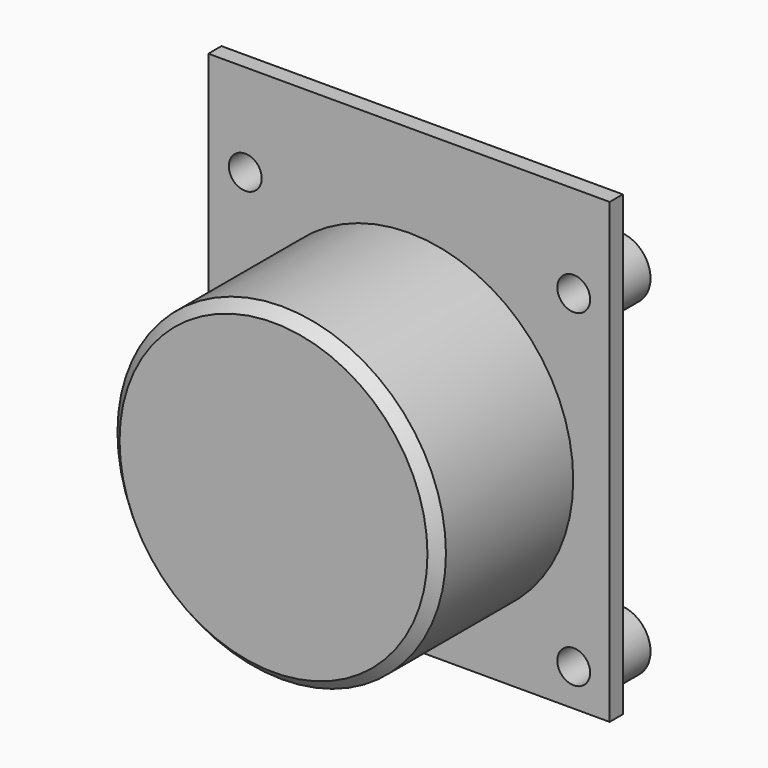
from build123d import *

# Parameters (mm, degrees)
SKETCH011_W     = 39.1
SKETCH011_H     = 44.6
SKETCH011_R     = 1.6
PAD007_DEPTH    = 1.6
SKETCH012_R     = 16
PAD008_DEPTH    = 16.5
SKETCH013_R     = 3
SKETCH013_R_2   = 1.6
PAD009_DEPTH    = 4
CHAMFER001_SIZE = 1


with BuildPart() as part:
    # Sketch011 → Pad007 (new body)
    with BuildSketch(Plane.XZ):
        Rectangle(SKETCH011_W, SKETCH011_H)
        with Locations((-15.95, 13.3)):
            Circle(SKETCH011_R, mode=Mode.SUBTRACT)
        with Locations((16.05, 13.3)):
            Circle(SKETCH011_R, mode=Mode.SUBTRACT)
        with Locations((16.05, -18.7)):
            Circle(SKETCH011_R, mode=Mode.SUBTRACT)
        with Locations((-15.95, -18.7)):
            Circle(SKETCH011_R, mode=Mode.SUBTRACT)
    extrude(amount=PAD007_DEPTH)

    # Sketch012 (on Face10 of Pad007) → Pad008 (join)
    with BuildSketch(Plane.XZ.offset(1.6)):
        with Locations((0, -2.7)):
            Circle(SKETCH012_R)
    extrude(amount=PAD008_DEPTH)

    # Sketch013 (on Face4 of Pad008) → Pad009 (join)
    with BuildSketch(Plane(origin=(0, 0, 0), x_dir=(1, 0, 0), z_dir=(0, 1, 0))):
        with Locations((-15.95, 18.7)):
            Circle(SKETCH013_R)
        with Locations((-15.95, 18.7)):
            Circle(SKETCH013_R_2, mode=Mode.SUBTRACT)
        with Locations((16.05, 18.7)):
            Circle(SKETCH013_R)
        with Locations((16.05, 18.7)):
            Circle(SKETCH013_R_2, mode=Mode.SUBTRACT)
        with Locations((16.05, -13.3)):
            Circle(SKETCH013_R)
        with Locations((16.05, -13.3)):
            Circle(SKETCH013_R_2, mode=Mode.SUBTRACT)
        with Locations((-15.95, -13.3)):
            Circle(SKETCH013_R)
        with Locations((-15.95, -13.3)):
            Circle(SKETCH013_R_2, mode=Mode.SUBTRACT)
    extrude(amount=PAD009_DEPTH)

    # Chamfer001
    chamfer001_edges = [part.edges().sort_by_distance(p)[0] for p in [
        (-16, -18.1, -2.7),
    ]]
    chamfer(chamfer001_edges, length=CHAMFER001_SIZE)


with BuildPart() as part_1:
    # Body008 placement: moved
    add(part.part.moved(Location((-20, -18.1, -102.9))))


with BuildPart() as part_2:
    # Clone placement: moved
    add(part_1.part.moved(Location((40, 0, 0))))


solid = part_2.part
